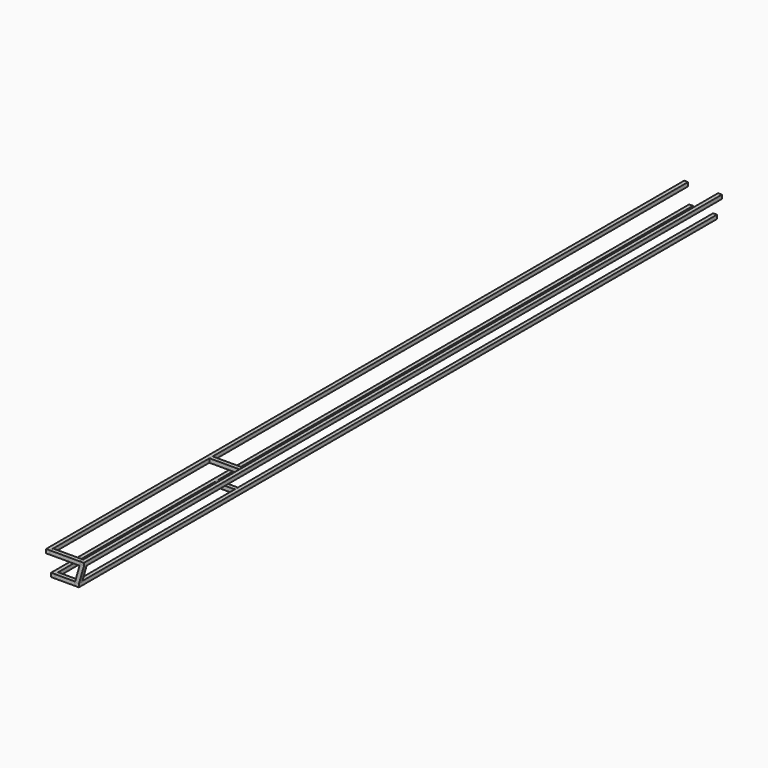
from build123d import *

# Parameters (mm, degrees)
F0_W     = 19.4161848675
F0_H     = 19.4161848675
F3_DEPTH = 4000
F1_W     = 20.1251437166
F1_H     = 19.4161848675
F4_DEPTH = 75
F1_W_2   = 20
F5_DEPTH = 50
F1_H_2   = 20
F6_DEPTH = 75
F7_DEPTH = 50
F2_W     = 19.4161848675
F2_H     = 20
F8_DEPTH = 45
F9_ANGLE = 16


with BuildPart() as f3:
    # F0 (on Front) → F3 (new body)
    with BuildSketch(Plane.XZ):
        with Locations((-84.8998599139, 46.86281751)):
            Rectangle(F0_W, F0_H)
    extrude(amount=-F3_DEPTH)


with BuildPart() as f3b:
    # F0 (on Front) → F3, piece 2 (new body)
    with BuildSketch(Plane.XZ):
        with Locations((85.1001400861, 46.86281751)):
            Rectangle(F0_W, F0_H)
    extrude(amount=-F3_DEPTH)


with BuildPart() as f3c:
    # F0 (on Front) → F3, piece 3 (new body)
    with BuildSketch(Plane.XZ):
        with Locations((60.1001400861, -49.9617661451)):
            Rectangle(F0_W, F0_H)
    extrude(amount=-F3_DEPTH)


with BuildPart() as f3d:
    # F0 (on Front) → F3, piece 4 (new body)
    with BuildSketch(Plane.XZ):
        with Locations((-59.8998599139, -49.9617661451)):
            Rectangle(F0_W, F0_H)
    extrude(amount=-F3_DEPTH)


with BuildPart() as f4:
    # F1 (on Right) → F4 (new body, symmetric)
    with BuildSketch(Plane.YZ):
        with Locations((10.0625718583, 46.86281751)):
            Rectangle(F1_W, F1_H)
    extrude(amount=F4_DEPTH, both=True)


with BuildPart() as f5:
    # F1 (on Right) → F5 (new body, symmetric)
    with BuildSketch(Plane.YZ):
        with Locations((10, -49.9617661451)):
            Rectangle(F1_W_2, F1_H)
    extrude(amount=F5_DEPTH, both=True)


with BuildPart() as f6:
    # F1 (on Right) → F6 (new body, symmetric)
    with BuildSketch(Plane.YZ):
        with Locations((1009.3107961635, 47.1547250763)):
            Rectangle(F1_W, F1_H_2)
    extrude(amount=F6_DEPTH, both=True)


with BuildPart() as f7:
    # F1 (on Right) → F7 (new body, symmetric)
    with BuildSketch(Plane.YZ):
        with Locations((1010.3628709306, -49.6698585789)):
            Rectangle(F1_W, F1_H_2)
    extrude(amount=F7_DEPTH, both=True)


with BuildPart() as f8:
    # F2 (on Top) → F8 (new body, symmetric)
    with BuildSketch(Plane.XY):
        with Locations((60.1001400861, 10)):
            Rectangle(F2_W, F2_H)
    extrude(amount=F8_DEPTH, both=True)


with BuildPart() as f8_1:
    # F9: moved
    add(f8.part.rotate(Axis((69.8082325198, 10, -45), (0, 1, 0)), F9_ANGLE))


solid = Compound([f3.part, f3b.part, f3c.part, f3d.part, f4.part, f5.part, f6.part, f7.part, f8_1.part])
